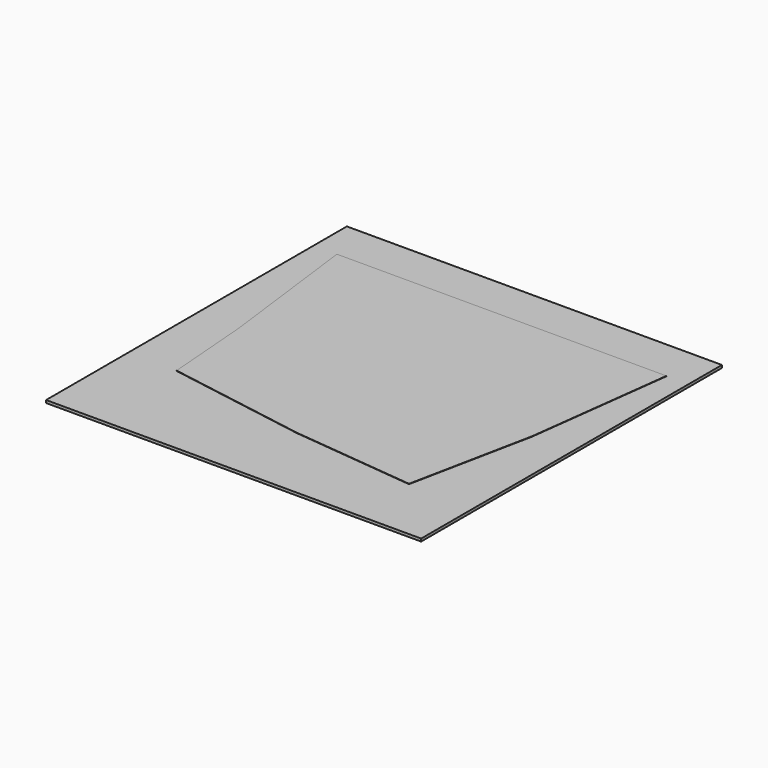
from build123d import *

# Parameters (mm, degrees)
F0_W      = 498.804112
F0_H      = 500
F5_DEPTH  = 3.575927
F10_DEPTH = 0.5


with BuildPart() as f5:
    # F0 (on Top) → F5 (new body)
    with BuildSketch(Plane.XY):
        Rectangle(F0_W, F0_H)
    extrude(amount=F5_DEPTH)

    # F4 (on face) → F10 (join)
    with BuildSketch(Plane.XY.offset(3.575927)):
        Polygon((220.337374, 193.966758), (0, 193.966758), (-217.815572, 193.966758), (-193.428581, 0.612999), (-184.306168, -114.369729), (0.809416, -145.545253), (163.168159, -162.434127), (196.218179, 0.96813), align=None)
    extrude(amount=F10_DEPTH)


solid = f5.part
